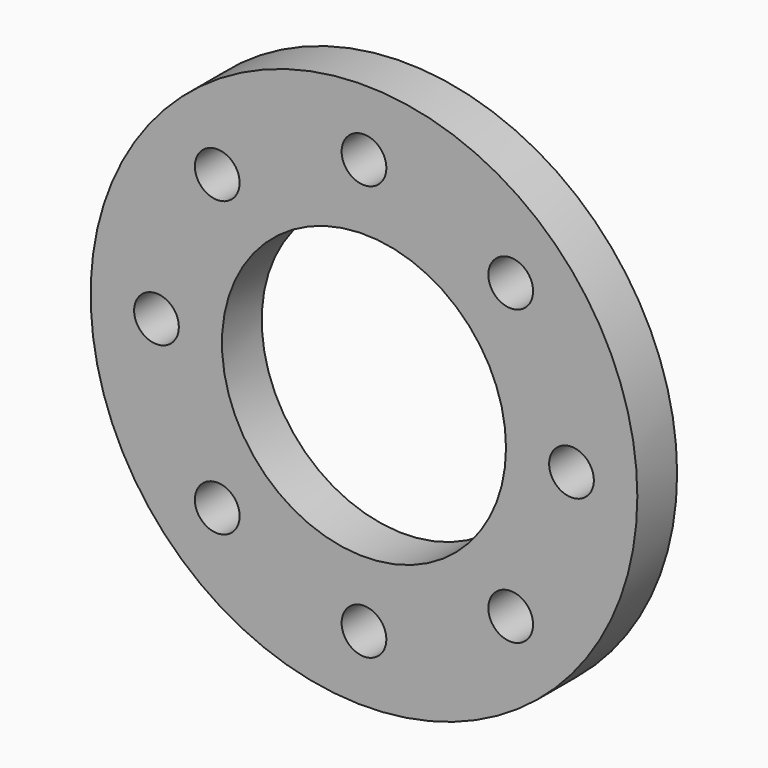
from build123d import *

# Parameters (mm, degrees)
F0_R     = 110
F0_R_2   = 9
F0_R_3   = 57.15
F1_DEPTH = 20


with BuildPart() as f1:
    # F0 (on Front) → F1 (new body)
    with BuildSketch(Plane.XZ):
        Circle(F0_R)
        with Locations((-59.043416, -59.043416)):
            Circle(F0_R_2, mode=Mode.SUBTRACT)
        with Locations((0, -83.5)):
            Circle(F0_R_2, mode=Mode.SUBTRACT)
        with Locations((59.043416, -59.043416)):
            Circle(F0_R_2, mode=Mode.SUBTRACT)
        with Locations((-83.5, 0)):
            Circle(F0_R_2, mode=Mode.SUBTRACT)
        with Locations((-59.043416, 59.043416)):
            Circle(F0_R_2, mode=Mode.SUBTRACT)
        Circle(F0_R_3, mode=Mode.SUBTRACT)
        with Locations((83.5, 0)):
            Circle(F0_R_2, mode=Mode.SUBTRACT)
        with Locations((0, 83.5)):
            Circle(F0_R_2, mode=Mode.SUBTRACT)
        with Locations((59.043416, 59.043416)):
            Circle(F0_R_2, mode=Mode.SUBTRACT)
    extrude(amount=F1_DEPTH)


solid = f1.part
